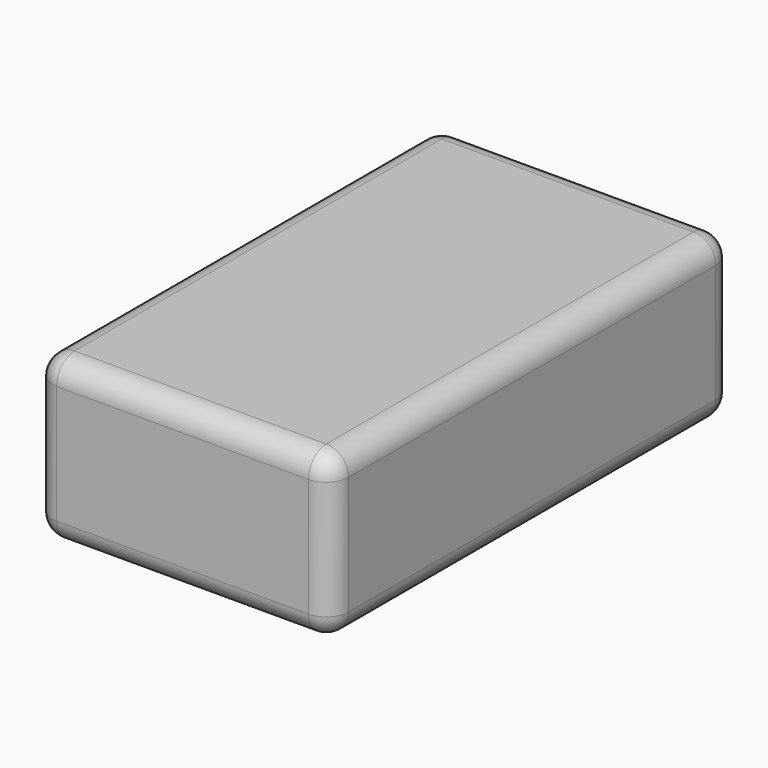
from build123d import *

# Parameters (mm, degrees)
F0_W     = 40
F0_H     = 68
F0_W_2   = 36
F0_H_2   = 64
F1_DEPTH = 20
F2_DEPTH = 15
F3_W     = 10
F3_H     = 5
F4_DEPTH = 25
F5_W     = 26
F5_H     = 54
F6_DEPTH = 2
F7_W     = 7.968329
F7_H     = 7
F8_DEPTH = 7
F9_R     = 3


with BuildPart() as f1:
    # F0 (on Top) → F1 (new body)
    with BuildSketch(Plane.XY):
        Rectangle(F0_W, F0_H)
        Rectangle(F0_W_2, F0_H_2, mode=Mode.SUBTRACT)
        Rectangle(F0_W_2, F0_H_2)
    extrude(amount=F1_DEPTH)

    # F0 (on Top) → F2 (cut)
    with BuildSketch(Plane.XY):
        Rectangle(F0_W_2, F0_H_2)
    extrude(amount=F2_DEPTH, mode=Mode.SUBTRACT)

    # F3 (on face) → F4 (cut)
    with BuildSketch(Plane(origin=(0, 34, 0), x_dir=(-1, 0, 0), z_dir=(0, 1, 0))):
        with Locations((10.149879, 2.5)):
            Rectangle(F3_W, F3_H)
    extrude(amount=-F4_DEPTH, mode=Mode.SUBTRACT)

    # F5 (on face) → F6 (join)
    with BuildSketch(Plane(origin=(0, 0, 0), x_dir=(1, 0, 0), z_dir=(0, 0, -1))):
        Polygon((20, 34), (-20, 34), (-20, -34), (-15.149879, -34), (-15.149879, -32), (-18, -32), (-18, 32), (18, 32), (18, -32), (-5.149879, -32), (-5.149879, -34), (20, -34), align=None)
        Polygon((-15.149879, -32), (-15.149879, -34), (-5.149879, -34), (-5.149879, -32), (18, -32), (18, 32), (-18, 32), (-18, -32), align=None)
        Rectangle(F5_W, F5_H, mode=Mode.SUBTRACT)
    extrude(amount=F6_DEPTH)

    # F7 (on face) → F8 (cut)
    with BuildSketch(Plane(origin=(0, 0, -2), x_dir=(1, 0, 0), z_dir=(0, 0, -1))):
        with Locations((-9.015835, -30.5)):
            Rectangle(F7_W, F7_H)
    extrude(amount=-F8_DEPTH, mode=Mode.SUBTRACT)

    # F9
    f9_edges = [f1.edges().sort_by_distance(p)[0] for p in [
        (-20, 0, 20),
        (0, -34, 20),
        (20, 0, 20),
        (0, 34, 20),
        (20, 34, 9),
        (-20, -34, 9),
        (-20, 0, -2),
        (-20, 34, 9),
        (20, -34, 9),
        (20, 0, -2),
        (0, -34, -2),
        (7.484165, 34, -2),
    ]]
    fillet(f9_edges, radius=F9_R)


solid = f1.part
